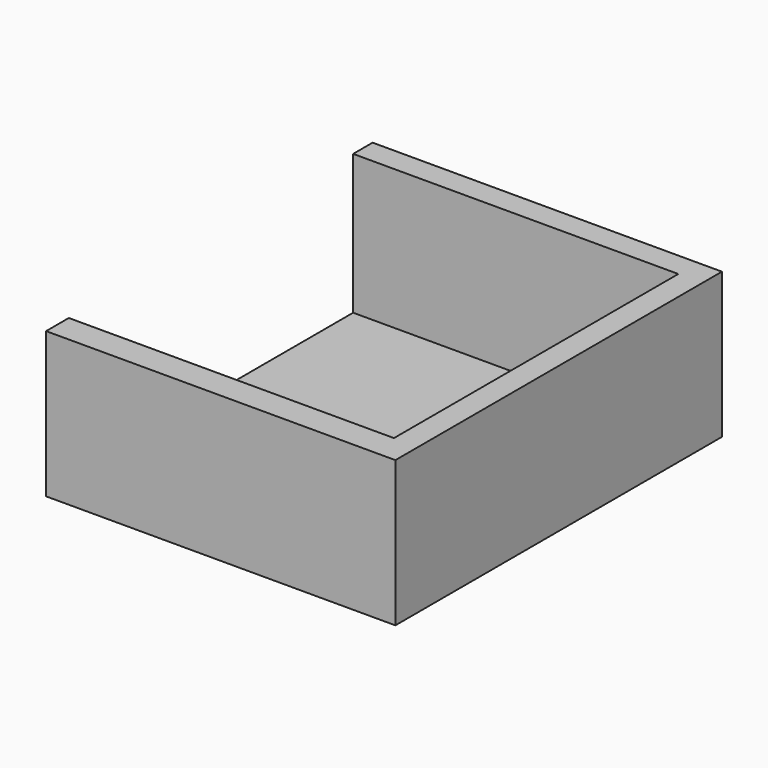
from build123d import *

# Parameters (mm, degrees)
F0_W     = 102.33476
F0_H     = 110.469941
F1_DEPTH = 39.37
F2_W     = 88.028256
F2_H     = 96.191108
F3_DEPTH = 37.846
F4_W     = 28.833367
F4_H     = 140.770766
F5_DEPTH = 58.166


with BuildPart() as f1:
    # F0 (on Top) → F1 (new body)
    with BuildSketch(Plane.XY):
        with Locations((-1.762386, 3.01904)):
            Rectangle(F0_W, F0_H)
    extrude(amount=-F1_DEPTH)

    # F2 (on face) → F3 (cut)
    with BuildSketch(Plane.XY):
        with Locations((-1.146434, 3.571052)):
            Rectangle(F2_W, F2_H)
    extrude(amount=-F3_DEPTH, mode=Mode.SUBTRACT)

    # F4 (on Top) → F5 (cut)
    with BuildSketch(Plane.XY):
        with Locations((-59.548001, 17.85939)):
            Rectangle(F4_W, F4_H)
    extrude(amount=-F5_DEPTH, mode=Mode.SUBTRACT)


solid = f1.part
